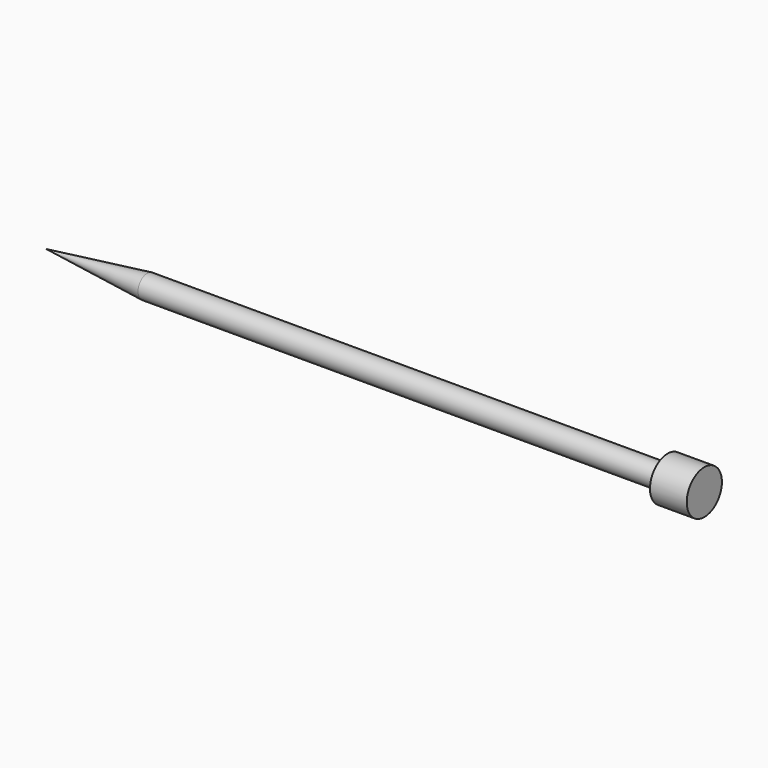
from build123d import *


with BuildPart() as f1:
    # F0 (on Front) → F1 (revolve)
    with BuildSketch(Plane.XZ):
        Polygon((-51.941328, 27.660238), (-37.623806, 27.660238), (36.036194, 27.660238), (36.036194, 29.285838), (-37.623806, 29.285838), align=None)
    revolve(axis=Axis((-0.793806, 0, 27.660238), (1, 0, 0)))

    # F0 (on Front) → F2 (revolve)
    with BuildSketch(Plane.XZ):
        Polygon((36.036194, 29.285838), (36.036194, 27.660238), (41.242126, 27.660238), (41.242126, 30.772114), (36.036194, 30.772114), align=None)
    revolve(axis=Axis((38.63916, 0, 27.660238), (1, 0, 0)))


solid = f1.part
